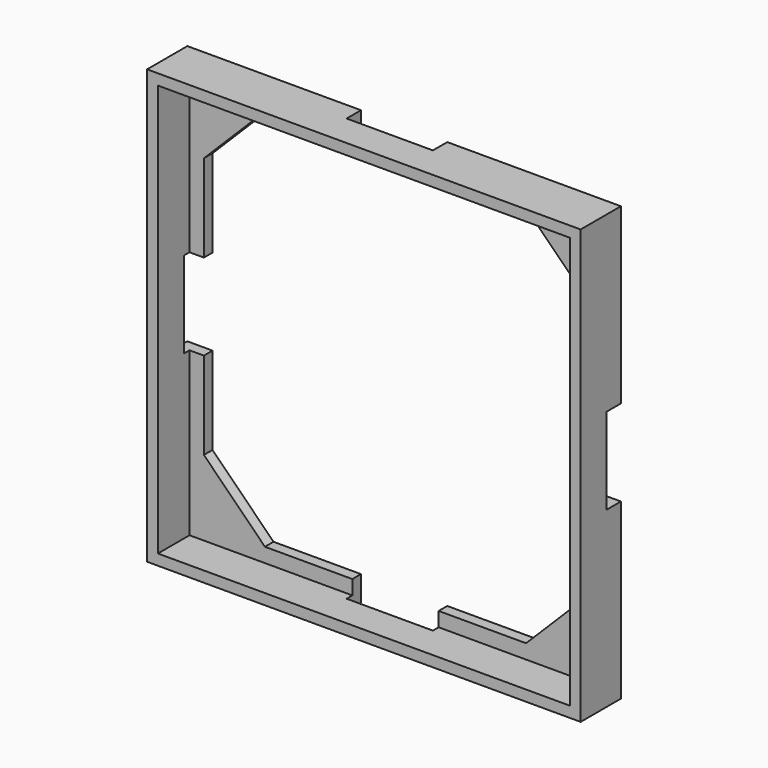
from build123d import *

# Parameters (mm, degrees)
F0_W     = 57.3
F0_H     = 57.3
F1_DEPTH = 1.5
F2_W     = 57.3
F2_H     = 57.3
F3_DEPTH = 7
F5_DEPTH = 2.5


with BuildPart() as f1:
    # F0 (on Front) → F1 (new body)
    with BuildSketch(Plane.XZ):
        Rectangle(F0_W, F0_H)
        Polygon((-18.164719, 26.65), (18.164719, 26.65), (26.65, 18.164719), (26.65, -18.164719), (18.164719, -26.65), (-18.164719, -26.65), (-26.65, -18.164719), (-26.65, 18.164719), align=None, mode=Mode.SUBTRACT)
    extrude(amount=F1_DEPTH)

    # F2 (on Front) → F3 (join)
    with BuildSketch(Plane.XZ):
        Polygon((28.65, 30.15), (-28.65, 30.15), (-30.15, 30.15), (-30.15, 28.65), (-30.15, -28.65), (-30.15, -30.15), (-28.65, -30.15), (28.65, -30.15), (30.15, -30.15), (30.15, -28.65), (30.15, 28.65), (30.15, 30.15), align=None)
        Rectangle(F2_W, F2_H, mode=Mode.SUBTRACT)
    extrude(amount=F3_DEPTH)

    # F4 (on Front) → F5 (cut)
    with BuildSketch(Plane.XZ):
        Polygon((25.578076, 6), (25.578076, 0), (25.578076, -6), (33.948865, -6), (33.948865, 6), align=None)
        Polygon((-6, 33.948865), (-6, 25.578076), (0, 25.578076), (6, 25.578076), (6, 33.948865), align=None)
        Polygon((-33.948865, -6), (-25.578076, -6), (-25.578076, 0), (-25.578076, 6), (-33.948865, 6), align=None)
        Polygon((6, -33.948865), (6, -25.578076), (0, -25.578076), (-6, -25.578076), (-6, -33.948865), align=None)
    extrude(amount=F5_DEPTH, mode=Mode.SUBTRACT)


solid = f1.part
